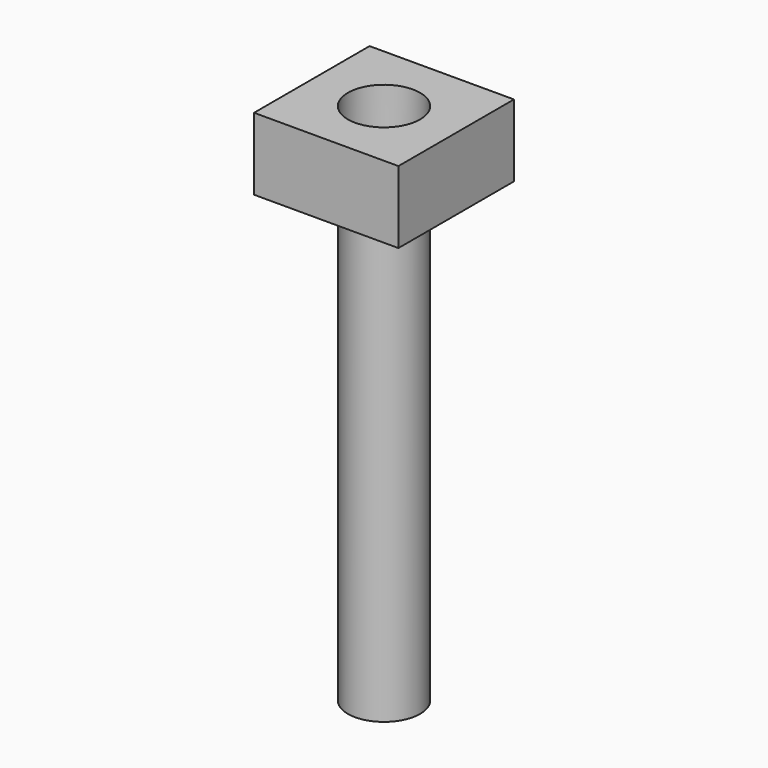
from build123d import *

# Parameters (mm, degrees)
F0_R     = 500
F1_DEPTH = 4250
F2_W     = 2000
F2_H     = 2000
F2_R     = 500
F3_DEPTH = 1000
F4_DEPTH = 2000


with BuildPart() as f1:
    # F0 (on Top) → F1 (new body)
    with BuildSketch(Plane.XY):
        Circle(F0_R)
    extrude(amount=F1_DEPTH)

    # F4 (add): a face of the model
    f4_faces = [f1.faces().sort_by_distance(p)[0] for p in [
        (0, 0, 0),
    ]]
    extrude(f4_faces, amount=F4_DEPTH)


with BuildPart() as f3:
    # F2 (on face) → F3 (new body)
    with BuildSketch(Plane.XY.offset(4250)):
        Rectangle(F2_W, F2_H)
        Circle(F2_R, mode=Mode.SUBTRACT)
    extrude(amount=F3_DEPTH)


solid = Compound([f1.part, f3.part])
